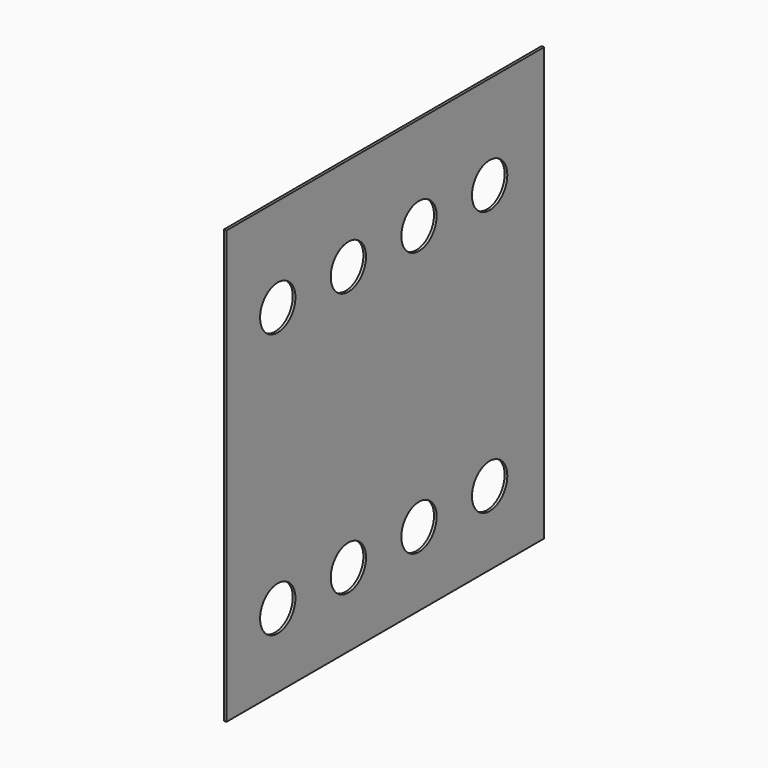
from build123d import *

# Parameters (mm, degrees)
PAD_DEPTH    = 3
SKETCH003_R  = 25
POCKET_DEPTH = 3.001


with BuildPart() as part:
    # Sketch → Pad (new body)
    with BuildSketch(Plane.YZ):
        Polygon((0, 0), (0, 490), (450, 490), (450, 0), (225, 0), align=None)
    extrude(amount=-PAD_DEPTH)

    # Sketch003 → Pocket (cut, through all)
    with BuildSketch(Plane.YZ):
        with Locations((372.684972, 383.665641)):
            Circle(SKETCH003_R)
        with Locations((272.684972, 383.665641)):
            Circle(SKETCH003_R)
        with Locations((72.684972, 383.665641)):
            Circle(SKETCH003_R)
        with Locations((72.684972, 83.665641)):
            Circle(SKETCH003_R)
        with Locations((172.684972, 83.665641)):
            Circle(SKETCH003_R)
        with Locations((372.684972, 83.665641)):
            Circle(SKETCH003_R)
        with Locations((272.684972, 83.665641)):
            Circle(SKETCH003_R)
        with Locations((172.684972, 383.665641)):
            Circle(SKETCH003_R)
    extrude(amount=-POCKET_DEPTH, mode=Mode.SUBTRACT)


solid = part.part
